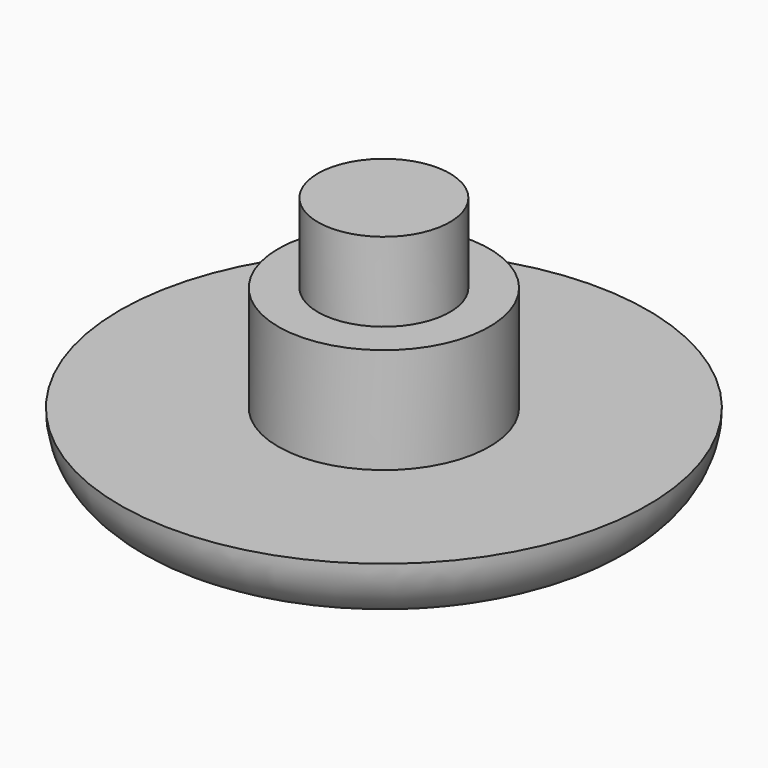
from build123d import *

# Parameters (mm, degrees)
F0_W = 2.5
F0_H = 3


with BuildPart() as f1:
    # F0 (on Front) → F1 (revolve)
    with BuildSketch(Plane.XZ):
        with BuildLine():
            Line((0, -2), (-4, -2))
            Line((-4, -2), (-10, -2))
            ThreePointArc((-10, -2), (-9.267767, -3.767767), (-7.5, -4.5))
            add(Edge.make_bspline(
                [(-7.5, -4.5), (-7.166894, -3.767685), (-3.670442, -4), (0, -4)],
                knots=[0, 0, 0, 0, 7.516648, 7.516648, 7.516648, 7.516648], degree=3))
            Line((0, -4), (0, -2))
        make_face()
        Polygon((-2.5, 2), (-4, 2), (-4, -2), (0, -2), (0, 0), (0, 2), align=None)
        with Locations((-1.25, 3.5)):
            Rectangle(F0_W, F0_H)
    revolve(axis=Axis((0, 0, 0), (0, 0, -1)))


solid = f1.part
